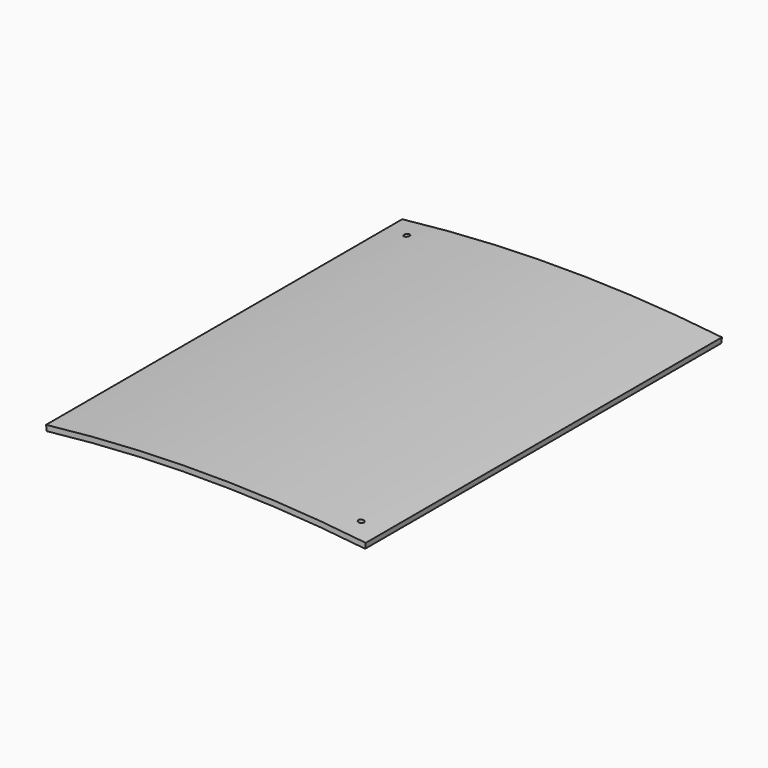
from build123d import *

# Parameters (mm, degrees)
F0_W     = 490
F0_H     = 6
F1_ANGLE = 13
F4_D     = 6
F4_DEPTH = 100


with BuildPart() as f1:
    # F0 (on Right) → F1 (revolve, symmetric)
    with BuildSketch(Plane.YZ) as f1_sk:
        with Locations((0, 1551)):
            Rectangle(F0_W, F0_H)
    revolve(axis=Axis((0, -0.207613, 0), (0, 1, 0)), revolution_arc=F1_ANGLE / 2)
    revolve(f1_sk.sketch, axis=Axis((0, -0.207613, 0), (0, -1, 0)), revolution_arc=F1_ANGLE / 2)

    # F4
    with Locations(Plane.XY.offset(1600)):
        with Locations((-150.917794, 220), (150.917794, -220)):
            Hole(F4_D / 2, depth=F4_DEPTH)


solid = f1.part
